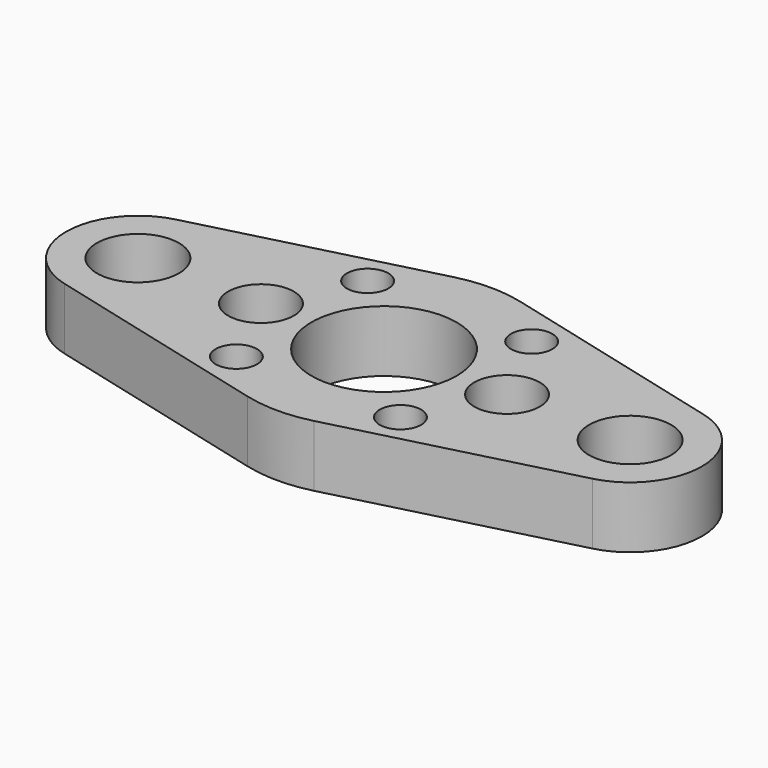
from build123d import *

# Parameters (mm, degrees)
F0_R     = 3.2004
F0_R_2   = 6.35
F0_R_3   = 5.08
F0_R_4   = 11.2395
F1_DEPTH = 9.525


with BuildPart() as f1:
    # F0 (on Top) → F1 (new body)
    with BuildSketch(Plane.XY):
        with BuildLine():
            Line((-5.159375, 19.982173), (-40.878125, 10.759632))
            ThreePointArc((-40.878125, 10.759632), (-49.2125, 0), (-40.878125, -10.759632))
            Line((-40.878125, -10.759632), (-5.159375, -19.982173))
            ThreePointArc((-5.159375, -19.982173), (0, -20.6375), (5.159375, -19.982173))
            Line((5.159375, -19.982173), (40.878125, -10.759632))
            ThreePointArc((40.878125, -10.759632), (49.2125, 0), (40.878125, 10.759632))
            Line((40.878125, 10.759632), (5.159375, 19.982173))
            ThreePointArc((5.159375, 19.982173), (0, 20.6375), (-5.159375, 19.982173))
        make_face()
        with Locations((-12.7, -12.7)):
            Circle(F0_R, mode=Mode.SUBTRACT)
        with Locations((12.7, -12.7)):
            Circle(F0_R, mode=Mode.SUBTRACT)
        with Locations((-38.1, 0)):
            Circle(F0_R_2, mode=Mode.SUBTRACT)
        with Locations((-19.05, 0)):
            Circle(F0_R_3, mode=Mode.SUBTRACT)
        with Locations((-12.7, 12.7)):
            Circle(F0_R, mode=Mode.SUBTRACT)
        Circle(F0_R_4, mode=Mode.SUBTRACT)
        with Locations((19.05, 0)):
            Circle(F0_R_3, mode=Mode.SUBTRACT)
        with Locations((38.1, 0)):
            Circle(F0_R_2, mode=Mode.SUBTRACT)
        with Locations((12.7, 12.7)):
            Circle(F0_R, mode=Mode.SUBTRACT)
    extrude(amount=F1_DEPTH)


solid = f1.part
